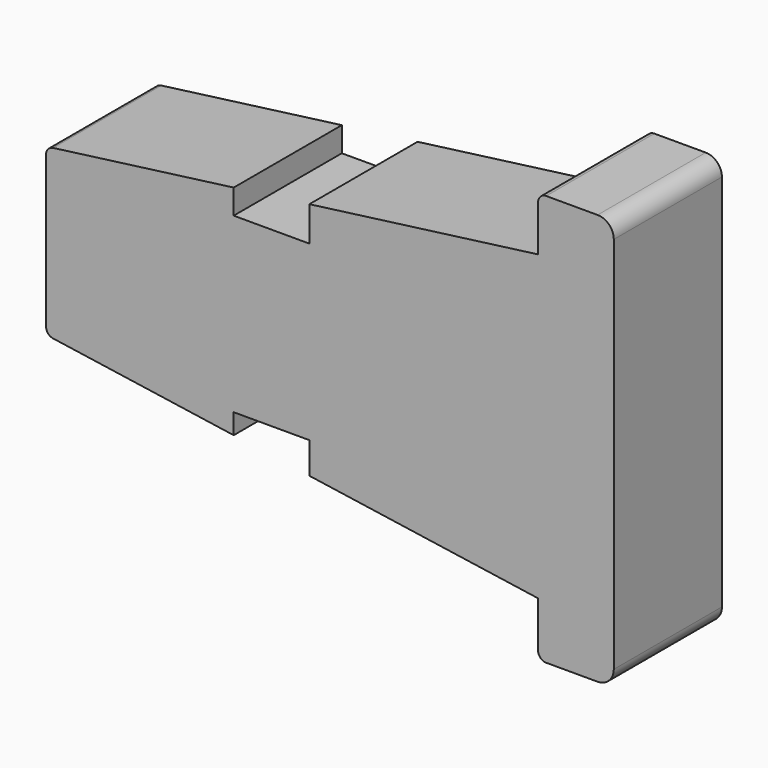
from build123d import *

# Parameters (mm, degrees)
F1_DEPTH = 25


with BuildPart() as f1:
    # F0 (on Front) → F1 (new body)
    with BuildSketch(Plane.XZ):
        with BuildLine():
            Line((-56.300399, -19.121413), (-42.300399, -19.121413))
            Line((-42.300399, -19.121413), (-42.300399, -24.923176))
            Line((-42.300399, -24.923176), (0, -31.121413))
            Line((0, -31.121413), (0, -39.621413))
            ThreePointArc((0, -39.621413), (0.43934, -40.682073), (1.5, -41.121413))
            Line((1.5, -41.121413), (11, -41.121413))
            ThreePointArc((11, -41.121413), (13.12132, -40.242733), (14, -38.121413))
            Line((14, -38.121413), (14, -19.121413))
            Line((14, -19.121413), (14, 31.878587))
            ThreePointArc((14, 31.878587), (13.12132, 33.999907), (11, 34.878587))
            Line((11, 34.878587), (1.5, 34.878587))
            ThreePointArc((1.5, 34.878587), (0.43934, 34.439247), (0, 33.378587))
            Line((0, 33.378587), (0, 24.878587))
            Line((0, 24.878587), (-42.300399, 19.300512))
            Line((-42.300399, 19.300512), (-42.300399, 12.878587))
            Line((-42.300399, 12.878587), (-56.300399, 12.878587))
            Line((-56.300399, 12.878587), (-56.300399, 17.454358))
            Line((-56.300399, 17.454358), (-89.696104, 13.050529))
            ThreePointArc((-89.696104, 13.050529), (-90.627865, 12.552303), (-91, 11.563403))
            Line((-91, 11.563403), (-91, -16.491046))
            ThreePointArc((-91, -16.491046), (-90.634946, -17.471809), (-89.717471, -17.975198))
            Line((-89.717471, -17.975198), (-56.300399, -22.871769))
            Line((-56.300399, -22.871769), (-56.300399, -19.121413))
        make_face()
    extrude(amount=F1_DEPTH)


solid = f1.part
